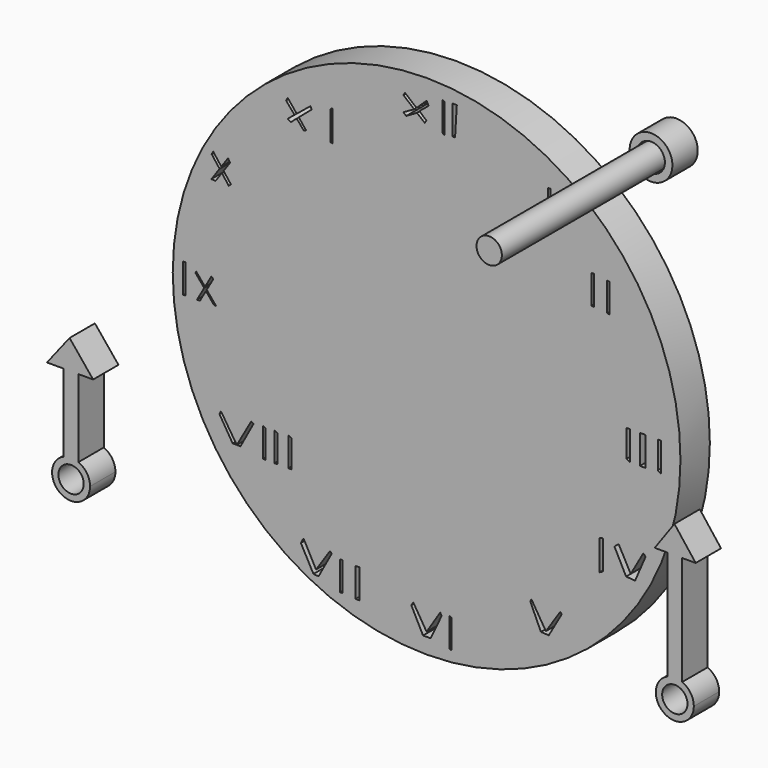
from build123d import *

# Parameters (mm, degrees)
F1_DEPTH  = 6.35
F2_R      = 50.8841631107
F3_DEPTH  = 7.366
F0_W      = 0.7393956184
F0_H      = 5.842
F0_W_2    = 1.1264383793
F0_W_3    = 0.531822443
F4_DEPTH  = 6.35
F0_R      = 3.175
F6_DEPTH  = 41.402
F7_R      = 2.54
F8_DEPTH  = 46.99
F9_R      = 4.2808208689
F9_R_2    = 2.7813464403
F10_DEPTH = 6.35


with BuildPart() as f1:
    # F0 (on Front) → F1 (new body)
    with BuildSketch(Plane.XZ):
        Polygon((-67.6651224494, -19.8488703489), (-64.7085532546, -19.8488703489), (-61.7612041533, -19.8488703489), (-66.4795421249, -14.0463605221), (-71.0170343518, -19.8488703489), align=None)
        with BuildLine():
            ThreePointArc((-67.6651224494, -35.3888042936), (-66.1871310704, -35.0888721874), (-64.7085532546, -35.3858998415))
            Line((-64.7085532546, -35.3858998415), (-64.7085532546, -19.8488703489))
            Line((-64.7085532546, -19.8488703489), (-67.6651224494, -19.8488703489))
            Line((-67.6651224494, -19.8488703489), (-67.6651224494, -35.3888042936))
        make_face()
        with BuildLine():
            ThreePointArc((-67.6651224494, -35.3888042936), (-68.2894144244, -42.0738906137), (-62.3733882332, -38.8988703489))
            ThreePointArc((-62.3733882332, -38.8988703489), (-63.0104384015, -36.789726123), (-64.7085532546, -35.3858998415))
            Line((-64.7085532546, -35.3858998415), (-64.7085532546, -36.8309095693))
            ThreePointArc((-64.7085532546, -36.8309095693), (-63.9253270244, -37.7357884184), (-63.6433882332, -38.8988703489))
            ThreePointArc((-63.6433882332, -38.8988703489), (-67.3426973142, -41.158870892), (-67.6651224494, -36.835847394))
            Line((-67.6651224494, -36.835847394), (-67.6651224494, -35.3888042936))
        make_face()
        with BuildLine():
            Line((-64.7085532546, -36.8309095693), (-64.7085532546, -35.3858998415))
            ThreePointArc((-64.7085532546, -35.3858998415), (-66.1871310704, -35.0888721874), (-67.6651224494, -35.3888042936))
            Line((-67.6651224494, -35.3888042936), (-67.6651224494, -36.835847394))
            ThreePointArc((-67.6651224494, -36.835847394), (-66.1876303315, -36.3588738913), (-64.7085532546, -36.8309095693))
        make_face()
    extrude(amount=F1_DEPTH)

    # F0 (on Front) → F6 (cut)
    with BuildSketch(Plane.XZ):
        Circle(F0_R)
    extrude(amount=F6_DEPTH, mode=Mode.SUBTRACT)


with BuildPart() as f1b:
    # F0 (on Front) → F1, piece 2 (new body)
    with BuildSketch(Plane.XZ):
        Polygon((53.3587597311, -12.9458063006), (56.3051597311, -12.9458063006), (59.0192191303, -12.9458063006), (54.7560788691, -7.4336584657), (50.8029833436, -12.9458063006), align=None)
        with BuildLine():
            ThreePointArc((53.3587597311, -34.8321498348), (54.8319597311, -34.5358063006), (56.3051597311, -34.8321498348))
            Line((56.3051597311, -34.8321498348), (56.3051597311, -12.9458063006))
            Line((56.3051597311, -12.9458063006), (53.3587597311, -12.9458063006))
            Line((53.3587597311, -12.9458063006), (53.3587597311, -34.8321498348))
        make_face()
        with BuildLine():
            ThreePointArc((53.3587597311, -34.8321498348), (52.7220772699, -41.5182652838), (58.6419597311, -38.3458063006))
            ThreePointArc((58.6419597311, -38.3458063006), (58.0044187142, -36.2359238395), (56.3051597311, -34.8321498348))
            Line((56.3051597311, -34.8321498348), (56.3051597311, -36.2766804562))
            ThreePointArc((56.3051597311, -36.2766804562), (57.0895611131, -37.1818320741), (57.3719597311, -38.3458063006))
            ThreePointArc((57.3719597311, -38.3458063006), (53.6679855045, -40.6034076826), (53.3587597311, -36.2766804562))
            Line((53.3587597311, -36.2766804562), (53.3587597311, -34.8321498348))
        make_face()
        with BuildLine():
            Line((56.3051597311, -36.2766804562), (56.3051597311, -34.8321498348))
            ThreePointArc((56.3051597311, -34.8321498348), (54.8319597311, -34.5358063006), (53.3587597311, -34.8321498348))
            Line((53.3587597311, -34.8321498348), (53.3587597311, -36.2766804562))
            ThreePointArc((53.3587597311, -36.2766804562), (54.8319597311, -35.8058063006), (56.3051597311, -36.2766804562))
        make_face()
    extrude(amount=F1_DEPTH)


with BuildPart() as f3:
    # F2 (on Front) → F3 (new body)
    with BuildSketch(Plane.XZ):
        Circle(F2_R)
    extrude(amount=-F3_DEPTH)

    # F0 (on Front) → F4 (cut)
    with BuildSketch(Plane.XZ):
        Polygon((-44.5774293527, -0.6957806384), (-46.0242331028, -3.2267752104), (-45.4344428289, -3.2267752104), (-44.2283697703, -1.1169076042), (-42.6062925599, -3.0738813942), (-42.2162636124, -3.0738813942), (-44.069174303, -0.8384158851), (-42.7759426354, 1.4239243465), (-43.1250022178, 1.8450513123), (-44.4182338854, -0.4172889193), (-46.1751941299, 1.7024160655), (-46.3343895972, 1.4239243465), align=None)
        Polygon((-48.3424887061, -3.2267752104), (-48.3424887061, 2.6152247896), (-48.7957783043, 2.6152247896), (-48.7957783043, -3.293849295), align=None)
        Polygon((-41.1437056192, 21.8390156986), (-42.7703224123, 23.9661298692), (-43.0732306783, 23.4081408472), (-41.4923926984, 21.3408912757), (-43.1390330195, 18.9885478467), (-42.3078450294, 18.9234605822), (-41.034652198, 20.7423075717), (-39.6534522756, 18.9361231405), (-39.2215987815, 19.3254914873), (-40.6859651187, 21.2404319946), (-39.4059184098, 23.0690702382), (-39.7888661119, 23.7745008021), align=None)
        Polygon((-26.0346268261, 36.0890427459), (-27.8375819325, 38.3080639842), (-28.1606806842, 37.7128819549), (-26.4668557795, 35.737856653), (-27.8375819325, 34.6241414372), (-27.2229880186, 34.2154090862), (-26.0349739466, 35.2342759434), (-24.618277231, 33.5823862759), (-24.1536593856, 33.7740063458), (-25.6254749199, 35.5854712669), (-23.0326685324, 37.8091187452), (-23.3035242942, 38.3080639842), align=None)
        Polygon((-18.8523907472, 39.3775763105), (-19.2769095302, 39.1471234484), (-19.2769095302, 33.3051234484), (-18.8523907472, 33.0929383636), align=None)
        Polygon((-38.0443103421, -26.265157094), (-41.2114150822, -21.3561437955), (-41.5270056222, -21.9374949058), (-38.8728305697, -26.265157094), (-37.3113587718, -26.2801300295), (-34.6852043253, -21.4424761403), (-35.1641309993, -21.1824874261), align=None)
        Polygon((-32.336479633, -21.4559111777), (-32.8401550651, -21.1824874261), (-32.8401550651, -27.0244874261), (-32.336479633, -27.0244874261), align=None)
        Polygon((-29.8605857548, -21.5376357649), (-30.514806509, -21.1824874261), (-30.514806509, -27.0244874261), (-29.8605857548, -27.0244874261), align=None)
        Polygon((-27.0563914459, -21.5451135794), (-27.7243871242, -21.1824874261), (-27.7243871242, -27.0244874261), (-27.0563914459, -27.0244874261), align=None)
        Polygon((-19.0379302949, -39.2930917442), (-19.3596267676, -38.8821408092), (-22.1605787143, -43.0842851043), (-24.674745281, -38.4046283516), (-25.2043044674, -39.3801323099), (-22.6799915078, -44.0301863634), (-21.6573836545, -44.1184015236), align=None)
        Polygon((-17.3378232867, -39.7061410027), (-17.3378232867, -45.5481410027), (-16.8234538287, -45.5032549798), (-16.8234538287, -39.7061410027), align=None)
        with Locations((-13.8676594943, -42.7821652331)):
            Rectangle(F0_W, F0_H)
        Polygon((3.0021970374, -43.0964115483), (2.7208898108, -42.578213595), (0, -46.8544214964), (-2.6632259278, -42.5482724971), (-3.0605210435, -43.1701256914), (-0.715805152, -47.7479062974), (0.8184174436, -47.7479062974), align=None)
        Polygon((4.9978640293, -42.7608381554), (4.6088700183, -42.578213595), (4.6088700183, -48.420213595), (4.9978640293, -48.4848357737), align=None)
        Polygon((23.9019636065, -38.9803871512), (21.0164505988, -34.2900007963), (20.7933214352, -34.7652704325), (22.9094550014, -39.4298061728), (24.4860183448, -39.5226143301), (27.0607014863, -35.0185417804), (26.8308772479, -34.5641393629), align=None)
        Polygon((35.3961326182, -24.7035492212), (35.3961326182, -18.8615492212), (34.610359889, -19.0012454987), (34.610359889, -25.1301112053), align=None)
        Polygon((40.9106202424, -23.3317650855), (38.4861421739, -18.8615492212), (37.6470535979, -19.5570447171), (39.9889610708, -24.1103265435), (41.7923144996, -24.2534503341), (43.8764505088, -19.3741767098), (43.451548872, -18.8615492212), align=None)
        Polygon((40.7424196601, -3.6870969925), (40.7424196601, 2.1549030075), (40.0711430656, 2.1549030075), (40.0711430656, -3.3033721497), align=None)
        with Locations((43.3132313192, -0.7660969925)):
            Rectangle(F0_W_2, F0_H)
        Polygon((47.0104813576, -3.6870969925), (47.0104813576, 2.1549030075), (46.339204763, 2.1549030075), (46.339204763, -3.3033721497), align=None)
        with Locations((24.6007498354, 36.4735795817)):
            Rectangle(F0_W_3, F0_H)
        Polygon((33.5525795817, 21.3851630688), (33.5525795817, 27.2271630688), (33.0246984959, 27.2271630688), (33.0246984959, 21.4159358293), align=None)
        Polygon((36.6866104305, 21.0164524615), (36.6866104305, 26.8584524615), (36.1734107137, 26.8584524615), (36.1734107137, 21.1583133787), align=None)
        Polygon((3.175, 48.059258364), (3.175, 42.217258364), (3.5755983835, 41.9218838215), (3.5755983835, 47.8417907133), align=None)
        Polygon((6.0525643639, 48.059258364), (5.2043486305, 48.059258364), (5.2043486305, 42.217258364), (5.7034611232, 42.217258364), align=None)
        Polygon((-2.0232254174, 44.9321717024), (-4.3497746333, 46.854477604), (-4.6428255162, 46.314646923), (-2.4812205229, 44.5457398891), (-4.6428255162, 43.3086158997), (-4.0893837691, 42.8319598412), (-1.9467252655, 44.0748069556), (-0.3737616139, 42.8345792228), (0, 43.3086158997), (-1.4507316519, 44.5600487292), (0.4236544917, 46.0740607865), (0, 46.854477604), align=None)
    extrude(amount=-F4_DEPTH, mode=Mode.SUBTRACT)


with BuildPart() as f8:
    # F7 (on Front) → F8 (new body)
    with BuildSketch(Plane.XZ):
        with Locations((50.1383207738, 55.8052957058)):
            Circle(F7_R)
    extrude(amount=F8_DEPTH)


with BuildPart() as f10:
    # F9 (on Front) → F10 (new body)
    with BuildSketch(Plane.XZ):
        with Locations((50.0641949475, 55.7195916772)):
            Circle(F9_R)
        with Locations((50.0641949475, 55.7195916772)):
            Circle(F9_R_2, mode=Mode.SUBTRACT)
    extrude(amount=F10_DEPTH)


solid = Compound([f1.part, f1b.part, f3.part, f8.part, f10.part])
